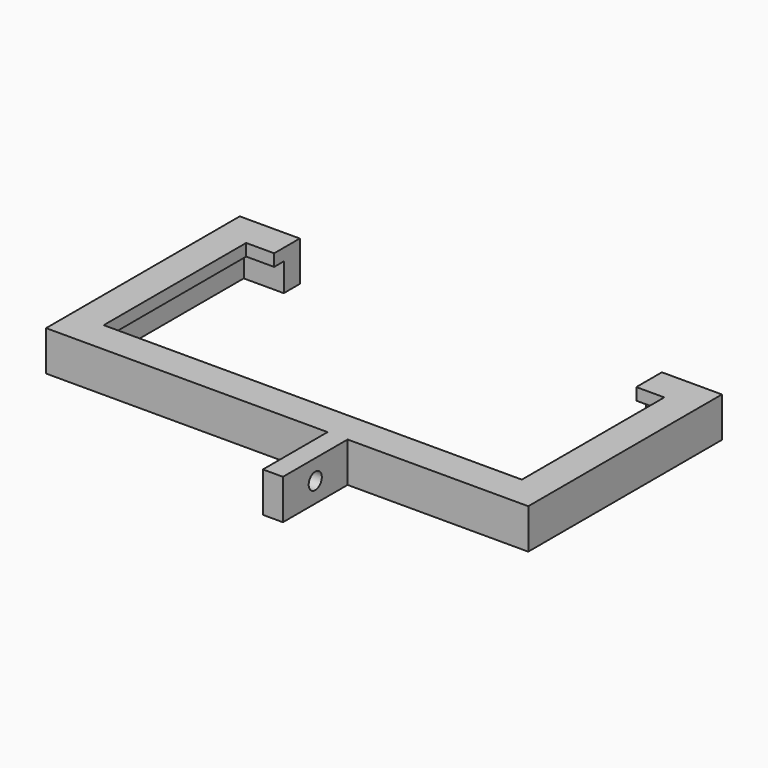
from build123d import *

# Parameters (mm, degrees)
F0_W     = 5
F0_H     = 20.2
F1_DEPTH = 10
F3_D     = 4.1
F3_DEPTH = 7
F3_TIP   = 1.231764269
F4_DEPTH = 3


with BuildPart() as f1:
    # F0 (on Top) → F1 (new body)
    with BuildSketch(Plane.XY):
        Polygon((-58.1956532598, -40.4000989108), (-58.1956532598, 0.0999010892), (-48.1956532598, 0.0999010892), (-48.1956532598, 5.0999010892), (-63.1956532598, 5.0999010892), (-63.1956532598, -55.4000989108), (7.1543467402, -55.4000989108), (12.1543467402, -55.4000989108), (57.3043467402, -55.4000989108), (57.3043467402, 5.0999010892), (42.3043467402, 5.0999010892), (42.3043467402, 0.0999010892), (52.3043467402, 0.0999010892), (52.3043467402, -40.4000989108), (52.3043467402, -50.4000989108), (-58.1956532598, -50.4000989108), align=None)
        with Locations((9.6543467402, -65.5000989108)):
            Rectangle(F0_W, F0_H)
    extrude(amount=-F1_DEPTH)

    # F3
    with Locations(Plane.YZ.offset(12.1543467402)):
        with Locations((-65.5000989108, -5)):
            Hole(F3_D / 2, depth=F3_DEPTH)
            with Locations((0, 0, -(F3_DEPTH + F3_TIP / 2))):  # 118° drill point
                Cone(0, F3_D / 2, F3_TIP, mode=Mode.SUBTRACT)

    # F0 (on Top) → F4 (join)
    with BuildSketch(Plane.XY):
        Polygon((-55.1956532598, -40.4000989108), (-58.1956532598, -40.4000989108), (-58.1956532598, -50.4000989108), (52.3043467402, -50.4000989108), (52.3043467402, -40.4000989108), (49.3043467402, -40.4000989108), (49.3043467402, -47.4000989108), (-55.1956532598, -47.4000989108), align=None)
        Polygon((-48.1956532598, 0.0999010892), (-58.1956532598, 0.0999010892), (-58.1956532598, -40.4000989108), (-55.1956532598, -40.4000989108), (-55.1956532598, -2.9000989108), (-48.1956532598, -2.9000989108), align=None)
        Polygon((52.3043467402, 0.0999010892), (42.3043467402, 0.0999010892), (42.3043467402, -2.9000989108), (49.3043467402, -2.9000989108), (49.3043467402, -40.4000989108), (52.3043467402, -40.4000989108), align=None)
    extrude(amount=-F4_DEPTH)


solid = f1.part
